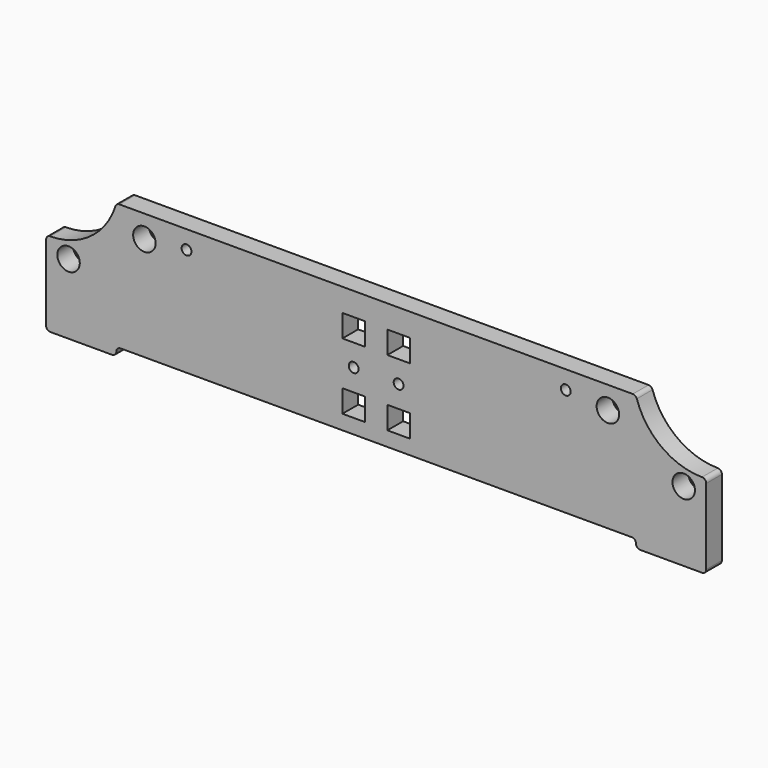
from build123d import *

# Parameters (mm, degrees)
F1_W     = 8
F1_H     = 8
F1_R     = 4
F1_R_2   = 1.75
F2_DEPTH = 3.5


with BuildPart() as f2:
    # F1 (on Front) → F2 (new body, symmetric)
    with BuildSketch(Plane.XZ):
        with BuildLine():
            ThreePointArc((-92.5, -22.5), (-92.06066, -21.43934), (-91, -21))
            Line((-91, -21), (91, -21))
            ThreePointArc((91, -21), (92.06066, -21.43934), (92.5, -22.5))
            ThreePointArc((92.5, -22.5), (92.93934, -23.56066), (94, -24))
            Line((94, -24), (116, -24))
            ThreePointArc((116, -24), (117.06066, -23.56066), (117.5, -22.5))
            Line((117.5, -22.5), (117.5, 4.4614))
            ThreePointArc((117.5, 4.4614), (117.063121, 5.519593), (116.006969, 5.961384))
            ThreePointArc((116.006969, 5.961384), (101.64959, 10.69529), (92.809128, 22.958667))
            ThreePointArc((92.809128, 22.958667), (92.264715, 23.712023), (91.380973, 24))
            Line((91.380973, 24), (-91.380973, 24))
            ThreePointArc((-91.380973, 24), (-92.264715, 23.712023), (-92.809128, 22.958667))
            ThreePointArc((-92.809128, 22.958667), (-101.64959, 10.69529), (-116.006969, 5.961384))
            ThreePointArc((-116.006969, 5.961384), (-117.063121, 5.519593), (-117.5, 4.4614))
            Line((-117.5, 4.4614), (-117.5, -22.5))
            ThreePointArc((-117.5, -22.5), (-117.06066, -23.56066), (-116, -24))
            Line((-116, -24), (-94, -24))
            ThreePointArc((-94, -24), (-92.93934, -23.56066), (-92.5, -22.5))
        make_face()
        with Locations((-8, -11.8)):
            Rectangle(F1_W, F1_H, mode=Mode.SUBTRACT)
        with Locations((8, -11.8)):
            Rectangle(F1_W, F1_H, mode=Mode.SUBTRACT)
        with Locations((-109.5, 1)):
            Circle(F1_R, mode=Mode.SUBTRACT)
        with Locations((-8, 0)):
            Circle(F1_R_2, mode=Mode.SUBTRACT)
        with Locations((-8, 11.8)):
            Rectangle(F1_W, F1_H, mode=Mode.SUBTRACT)
        with Locations((-82.5, 16)):
            Circle(F1_R, mode=Mode.SUBTRACT)
        with Locations((-67.5, 17.5)):
            Circle(F1_R_2, mode=Mode.SUBTRACT)
        with Locations((8, 0)):
            Circle(F1_R_2, mode=Mode.SUBTRACT)
        with Locations((8, 11.8)):
            Rectangle(F1_W, F1_H, mode=Mode.SUBTRACT)
        with Locations((109.5, 1)):
            Circle(F1_R, mode=Mode.SUBTRACT)
        with Locations((67.5, 17.5)):
            Circle(F1_R_2, mode=Mode.SUBTRACT)
        with Locations((82.5, 16)):
            Circle(F1_R, mode=Mode.SUBTRACT)
    extrude(amount=F2_DEPTH, both=True)


solid = f2.part
